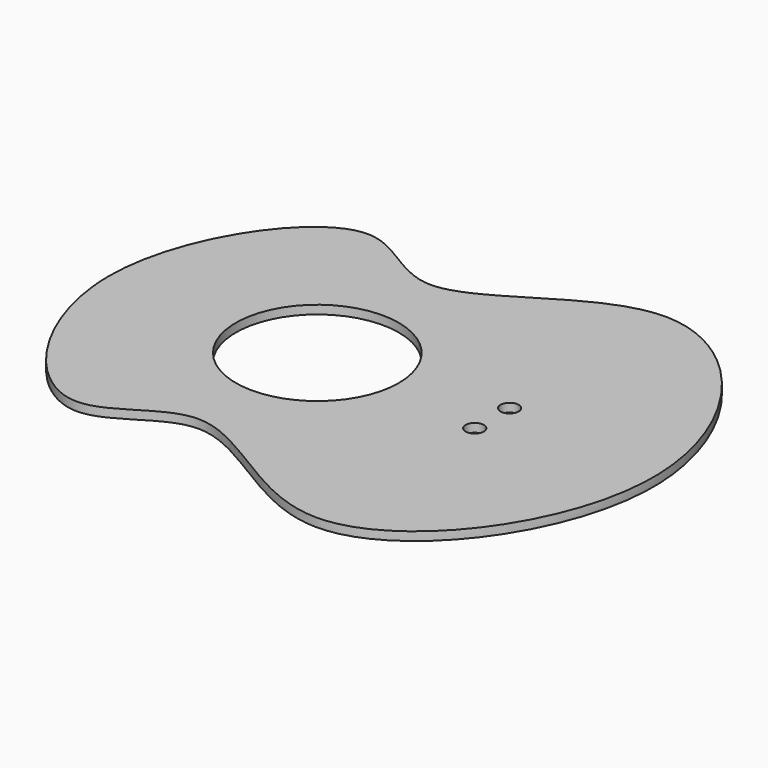
from build123d import *

# Parameters (mm, degrees)
F1_DEPTH = 3
F2_R     = 28.5115
F3_DEPTH = 3
F4_R     = 3.175
F5_DEPTH = 25.4


with BuildPart() as f1:
    # F0 (on Top) → F1 (new body)
    with BuildSketch(Plane.XY):
        with BuildLine():
            add(Edge.make_bspline(
                [(-154.6915561036, -54.3531250774), (-154.6915561036, -23.2090401662), (-118.1120565582, 29.5895463504), (-82.0182948831, -22.3042283976), (-17.0197501773, 53.0425712855), (64.4641398068, -54.3531250774), (-17.0197501773, -161.7488214403), (-82.0182948831, -86.4020217572), (-118.1120565582, -138.2957965052), (-154.6915561036, -85.4972099886), (-154.6915561036, -54.3531250774)],
                knots=[0, 0, 0, 0, 0.1323947401, 0.2244488852, 0.3505322945, 0.5, 0.6494677055, 0.7755511148, 0.8676052599, 1, 1, 1, 1], degree=3))
        make_face()
    extrude(amount=F1_DEPTH)

    # F2 (on face) → F3 (cut)
    with BuildSketch(Plane.XY.offset(3)):
        with Locations((-81.8246347257, -54.3531250774)):
            Circle(F2_R)
    extrude(amount=-F3_DEPTH, mode=Mode.SUBTRACT)

    # F4 (on face) → F5 (cut)
    with BuildSketch(Plane.XY.offset(3)):
        with Locations((-20.3897207975, -47.0558599767)):
            Circle(F4_R)
        with Locations((-20.3897207975, -62.2958599767)):
            Circle(F4_R)
    extrude(amount=-F5_DEPTH, mode=Mode.SUBTRACT)


solid = f1.part
